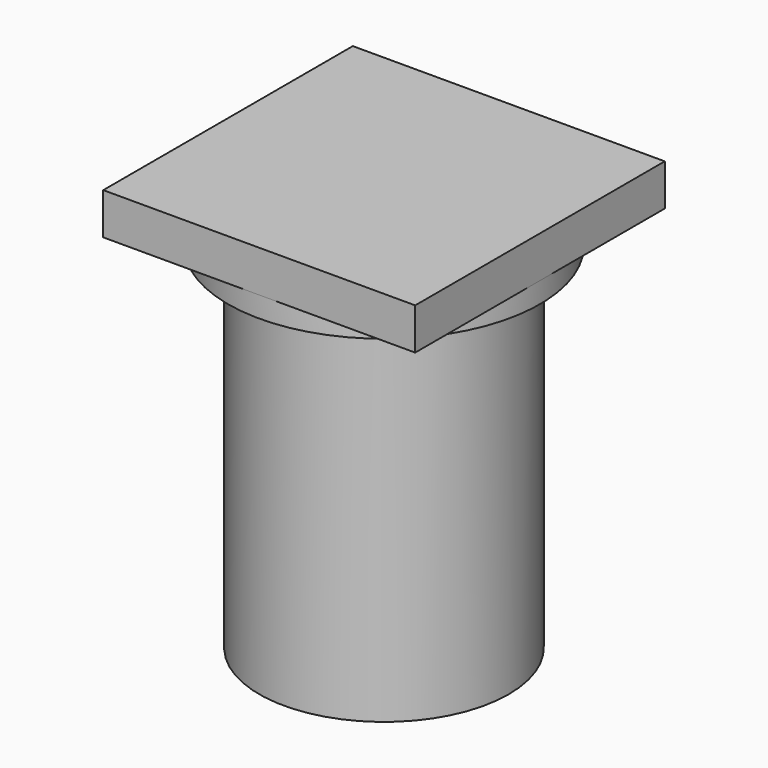
from build123d import *

# Parameters (mm, degrees)
CIRCLE_R         = 3.75
EXTRUDE001_DEPTH = 1.5
CIRCLE001_R      = 3
EXTRUDE_DEPTH    = 10
BOX_W            = 7.5
BOX_H            = 7.5
BOX_DEPTH        = 1


with BuildPart() as extrude001:
    # Circle → Extrude001 (new body)
    with BuildSketch(Plane(origin=(3.75, 3.75, 1), x_dir=(-1, 0, 0), z_dir=(0, 0, 1))):
        Circle(CIRCLE_R)
    extrude(amount=EXTRUDE001_DEPTH)


with BuildPart() as extrude001_1:
    # Extrude001 placement: moved
    add(extrude001.part.moved(Location((0, 0, -1.5))))


with BuildPart() as fusion:
    # Circle001 → Extrude (new body)
    with BuildSketch(Plane(origin=(3.75, 3.75, 1), x_dir=(-1, 0, 0), z_dir=(0, 0, 1))):
        Circle(CIRCLE001_R)
    extrude(amount=EXTRUDE_DEPTH)


with BuildPart() as fusion_1:
    # Extrude placement: moved
    add(fusion.part.moved(Location((0, 0, -10))))

    # Fusion: union Extrude001
    add(extrude001_1.part)


with BuildPart() as obj1:
    # Box → Box (new body)
    with BuildSketch(Plane.XY):
        with Locations((3.75, 3.75)):
            Rectangle(BOX_W, BOX_H)
    extrude(amount=BOX_DEPTH)

    # Fusion001: union Fusion
    add(fusion_1.part)


solid = obj1.part
